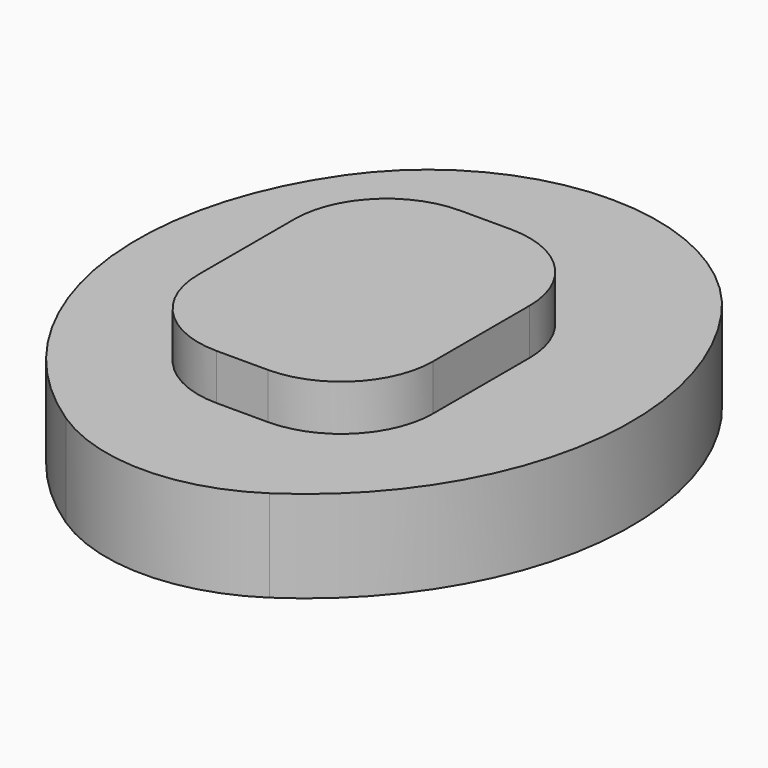
from build123d import *

# Parameters (mm, degrees)
F1_DEPTH = 20
F3_DEPTH = 10


with BuildPart() as f1:
    # F0 (on Top) → F1 (new body)
    with BuildSketch(Plane.XY):
        with BuildLine():
            ThreePointArc((-22.126984, -53.408383), (0, -60.085769), (22.126984, -53.408383))
            ThreePointArc((22.126984, -53.408383), (52.490427, -7.67724), (41, 46))
            ThreePointArc((41, 46), (0, 67.381824), (-41, 46))
            ThreePointArc((-41, 46), (-52.490427, -7.67724), (-22.126984, -53.408383))
        make_face()
    extrude(amount=F1_DEPTH)

    # F2 (on face) → F3 (join)
    with BuildSketch(Plane.XY.offset(20)):
        with BuildLine():
            ThreePointArc((25.551237, 13.094417), (19.693373, 27.236553), (5.551237, 33.094417))
            Line((5.551237, 33.094417), (-5.551237, 33.094417))
            ThreePointArc((-5.551237, 33.094417), (-19.693373, 27.236553), (-25.551237, 13.094417))
            Line((-25.551237, 13.094417), (-25.551237, -13.094417))
            ThreePointArc((-25.551237, -13.094417), (-19.693373, -27.236553), (-5.551237, -33.094417))
            Line((-5.551237, -33.094417), (5.551237, -33.094417))
            ThreePointArc((5.551237, -33.094417), (19.693373, -27.236553), (25.551237, -13.094417))
            Line((25.551237, -13.094417), (25.551237, 13.094417))
        make_face()
    extrude(amount=F3_DEPTH)


solid = f1.part
